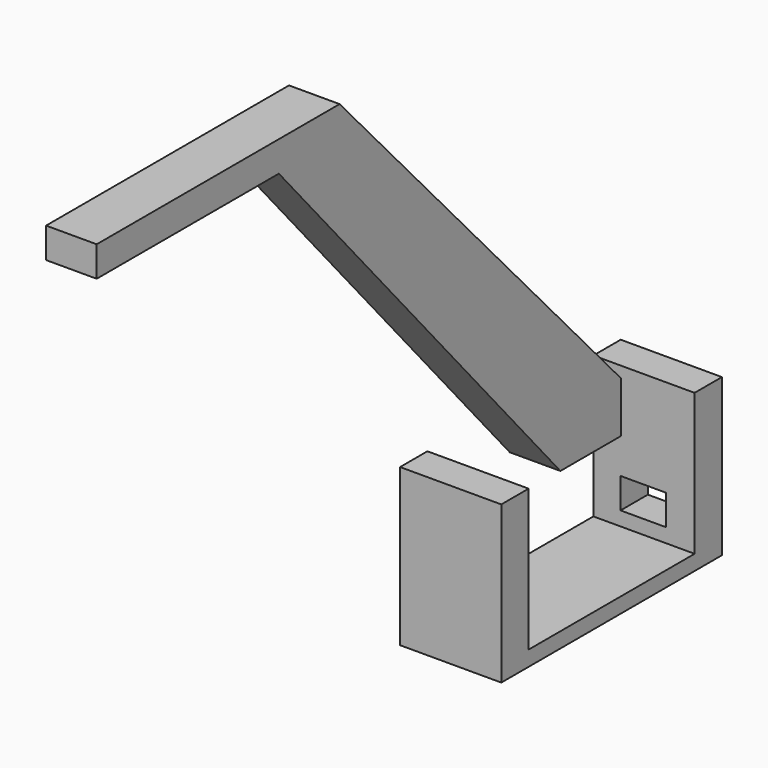
from build123d import *

# Parameters (mm, degrees)
PAD_DEPTH       = 10
PAD001_DEPTH    = 20
SKETCH003_W     = 9
SKETCH003_H     = 6
POCKET_DEPTH    = 8
SKETCH002_W     = 4.2
SKETCH002_H     = 4.2
POCKET001_DEPTH = 5


with BuildPart() as triangleconnectorbody:
    # Sketch → Pad (new body)
    with BuildSketch(Plane.YZ):
        Polygon((0, 0), (15, 0), (15, 10), (-54.542939, 86), (-114.542939, 86), (-114.542939, 80), (-69.542939, 80), align=None)
    extrude(amount=PAD_DEPTH)


with BuildPart() as body001:
    # Sketch001 → Pad001 (new body)
    with BuildSketch(Plane.YZ):
        Polygon((-27.098937, -22.548221), (27.401063, -22.548221), (27.401063, 8.451779), (20.651063, 8.451779), (20.651063, -19.548221), (-20.348937, -19.548221), (-20.348937, 8.451779), (-27.098937, 8.451779), align=None)
    extrude(amount=PAD001_DEPTH)

    # Sketch003 → Pocket (cut)
    with BuildSketch(Plane(origin=(0, 27.401063, 0), x_dir=(-1, 0, 0), z_dir=(0, 1, 0))):
        with Locations((-9.865053, -13.762334)):
            Rectangle(SKETCH003_W, SKETCH003_H)
    extrude(amount=-POCKET_DEPTH, mode=Mode.SUBTRACT)

    # Sketch002 (on Face4 of Pocket) → Pocket001 (cut)
    with BuildSketch(Plane(origin=(0, 0, 0), x_dir=(0, 1, 0), z_dir=(-1, 0, 0))):
        with Locations((-23.796906, 18.893097)):
            Rectangle(SKETCH002_W, SKETCH002_H)
        with Locations((23.941537, 18.893097)):
            Rectangle(SKETCH002_W, SKETCH002_H)
    extrude(amount=-POCKET001_DEPTH, mode=Mode.SUBTRACT)


solid = Compound([triangleconnectorbody.part, body001.part])
